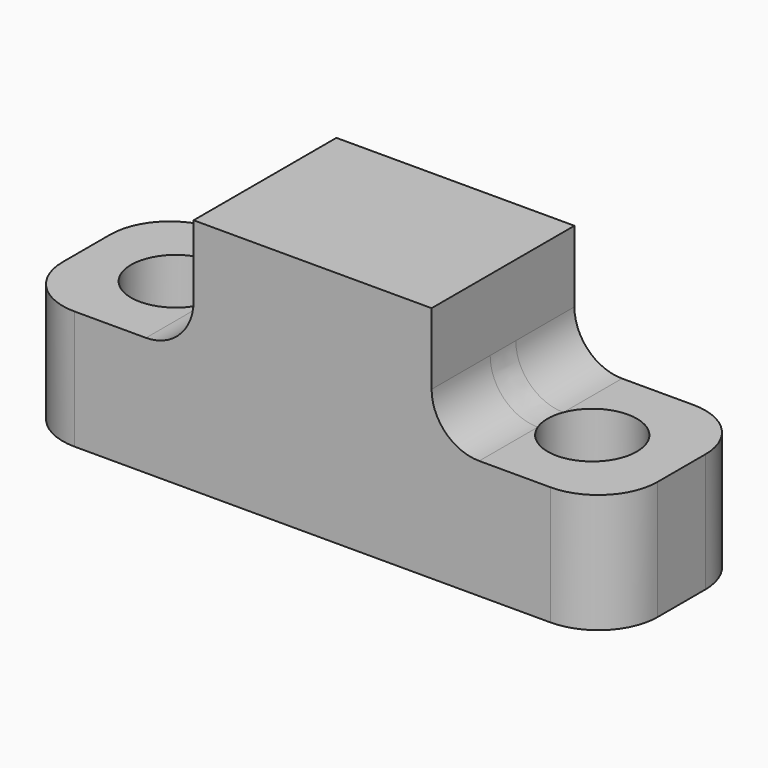
from build123d import *

# Parameters (mm, degrees)
F1_DEPTH = 19.05
F3_D     = 9.525
F4_R     = 6.35
F6_R     = 5.08


with BuildPart() as f1:
    # F0 (on Front) → F1 (new body)
    with BuildSketch(Plane.XZ):
        Polygon((-31.75, 0), (0, 0), (0, 25.4), (-12.7, 25.4), (-12.7, 12.7), (-31.75, 12.7), align=None)
    extrude(amount=F1_DEPTH)

    # F3 (through all)
    with Locations(Plane.XY.offset(12.7)):
        with Locations((-22.225, -9.525)):
            Hole(F3_D / 2)

    # F4
    f4_edges = [f1.edges().sort_by_distance(p)[0] for p in [
        (-31.75, -19.05, 6.35),
        (-31.75, 0, 6.35),
    ]]
    fillet(f4_edges, radius=F4_R)

    # F5: F1 across face


with BuildPart() as f1_1:
    add(f1.part)
    add(f1.part.mirror(Plane(origin=(0, -9.525, 12.7), x_dir=(0, 1, 0), z_dir=(1, 0, 0))))

    # F6
    f6_edges = [f1_1.edges().sort_by_distance(p)[0] for p in [
        (-12.7, -9.525, 12.7),
        (12.7, -9.525, 12.7),
    ]]
    fillet(f6_edges, radius=F6_R)


solid = f1_1.part
